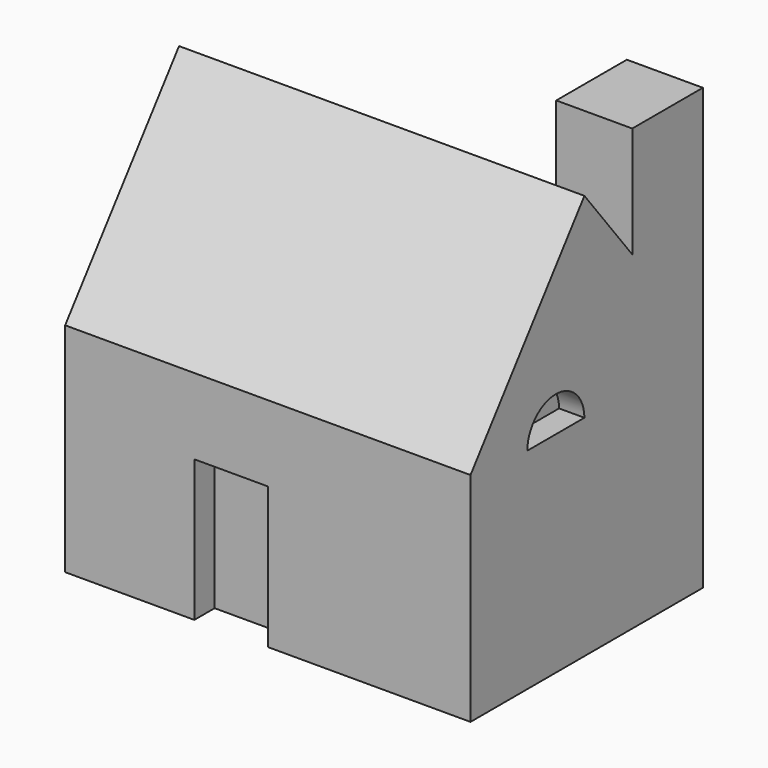
from build123d import *

# Parameters (mm, degrees)
F1_DEPTH      = 50.8
F1_DEPTH_BACK = 50.8
F3_DEPTH      = 19.05
F4_W          = 18.4178259224
F4_H          = 35.4467518628
F5_DEPTH      = 6.35
F6_W          = 15.8175062388
F6_H          = 8.841086179
F7_DEPTH      = 6.35
F9_DEPTH      = 6.35


with BuildPart() as f1:
    # F0 (on Right) → F1 (new body, two sides)
    with BuildSketch(Plane.YZ) as f1_sk:
        Polygon((-35.6828793883, 54.4758699834), (-35.6828793883, 0), (37.1101982892, 0), (37.1101982892, 54.4758699834), (0, 101.5772745013), align=None)
    extrude(amount=F1_DEPTH)
    extrude(f1_sk.sketch, amount=-F1_DEPTH_BACK)

    # F2 (on face) → F3 (join)
    with BuildSketch(Plane.YZ.offset(50.8)):
        Polygon((14.9918657955, 110.3359609842), (14.9918657955, 82.5491375506), (37.1101982892, 54.4758699834), (37.1101982892, 110.3359609842), align=None)
    extrude(amount=-F3_DEPTH)

    # F4 (on face) → F5 (cut)
    with BuildSketch(Plane.XZ.offset(35.6828793883)):
        with Locations((-9.2089129612, 17.7233759314)):
            Rectangle(F4_W, F4_H)
    extrude(amount=-F5_DEPTH, mode=Mode.SUBTRACT)

    # F6 (on face) → F7 (cut)
    with BuildSketch(Plane(origin=(-50.8, 0, 0), x_dir=(0, -1, 0), z_dir=(-1, 0, 0))):
        with Locations((-7.9087531194, 46.6281268746)):
            Rectangle(F6_W, F6_H)
    extrude(amount=-F7_DEPTH, mode=Mode.SUBTRACT)

    # F8 (on face) → F9 (cut)
    with BuildSketch(Plane.YZ.offset(50.8)):
        with BuildLine():
            Line((-17.8977604955, 52.6088625193), (0, 52.6088625193))
            ThreePointArc((0, 52.6088625193), (-8.9488802478, 61.4720002386), (-17.8977604955, 52.6088625193))
        make_face()
    extrude(amount=-F9_DEPTH, mode=Mode.SUBTRACT)


solid = f1.part
